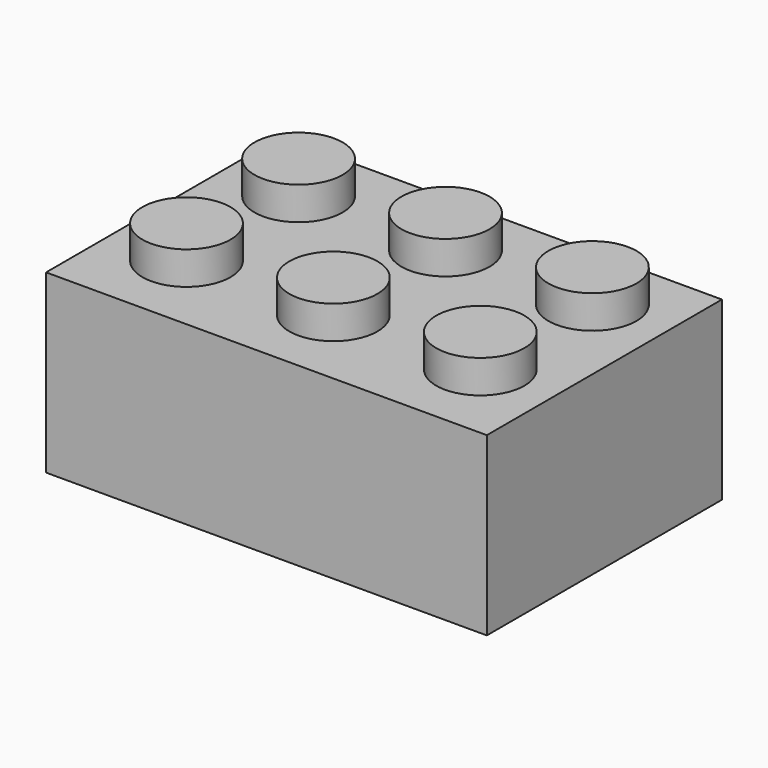
from build123d import *

# Parameters (mm, degrees)
F0_W     = 24
F0_H     = 16
F1_DEPTH = 9.6
F2_R     = 2.4
F3_DEPTH = 1.8


with BuildPart() as f1:
    # F0 (on Top) → F1 (new body)
    with BuildSketch(Plane.XY):
        with Locations((-12, 8)):
            Rectangle(F0_W, F0_H)
    extrude(amount=F1_DEPTH)

    # F2 (on face) → F3 (join)
    with BuildSketch(Plane.XY.offset(9.6)):
        with Locations((-20, 12.185113)):
            Circle(F2_R)
        with Locations((-12, 12.185113)):
            Circle(F2_R)
        with Locations((-4, 12.185113)):
            Circle(F2_R)
        with Locations((-4, 4.555339)):
            Circle(F2_R)
        with Locations((-12, 4.555339)):
            Circle(F2_R)
        with Locations((-20, 4.555339)):
            Circle(F2_R)
    extrude(amount=F3_DEPTH)


solid = f1.part
